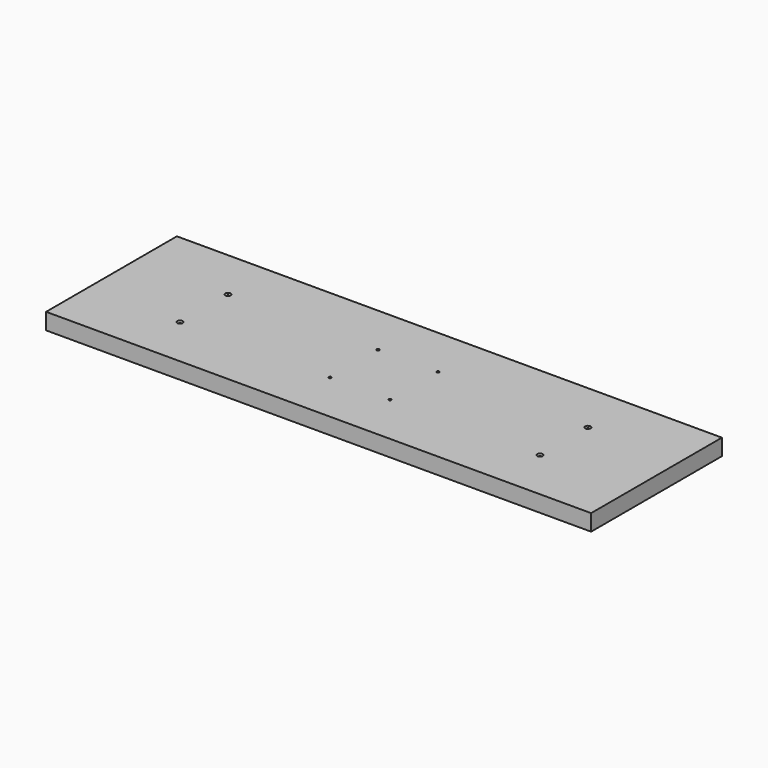
from build123d import *

# Parameters (mm, degrees)
F0_W     = 1000
F0_H     = 300
F0_R     = 2.5
F1_DEPTH = 30
F2_SIZE  = 2.5
F3_SIZE  = 2.5


with BuildPart() as f1:
    # F0 (on Top) → F1 (new body)
    with BuildSketch(Plane.XY):
        Rectangle(F0_W, F0_H)
        with Locations((-330.2, -55)):
            Circle(F0_R, mode=Mode.SUBTRACT)
        with Locations((-55, -55)):
            Circle(F0_R, mode=Mode.SUBTRACT)
        with Locations((55, -55)):
            Circle(F0_R, mode=Mode.SUBTRACT)
        with Locations((330.2, -55)):
            Circle(F0_R, mode=Mode.SUBTRACT)
        with Locations((-330.2, 55)):
            Circle(F0_R, mode=Mode.SUBTRACT)
        with Locations((-55, 55)):
            Circle(F0_R, mode=Mode.SUBTRACT)
        with Locations((55, 55)):
            Circle(F0_R, mode=Mode.SUBTRACT)
        with Locations((330.2, 55)):
            Circle(F0_R, mode=Mode.SUBTRACT)
    extrude(amount=F1_DEPTH)

    # F2
    f2_edges = [f1.edges().sort_by_distance(p)[0] for p in [
        (-332.7, 55, 30),
        (-332.7, -55, 30),
        (327.7, 55, 30),
        (327.7, -55, 30),
    ]]
    chamfer(f2_edges, length=F2_SIZE)

    # F3
    f3_edges = [f1.edges().sort_by_distance(p)[0] for p in [
        (-332.7, -55, 0),
        (-332.7, 55, 0),
        (327.7, -55, 0),
        (327.7, 55, 0),
    ]]
    chamfer(f3_edges, length=F3_SIZE)


solid = f1.part
